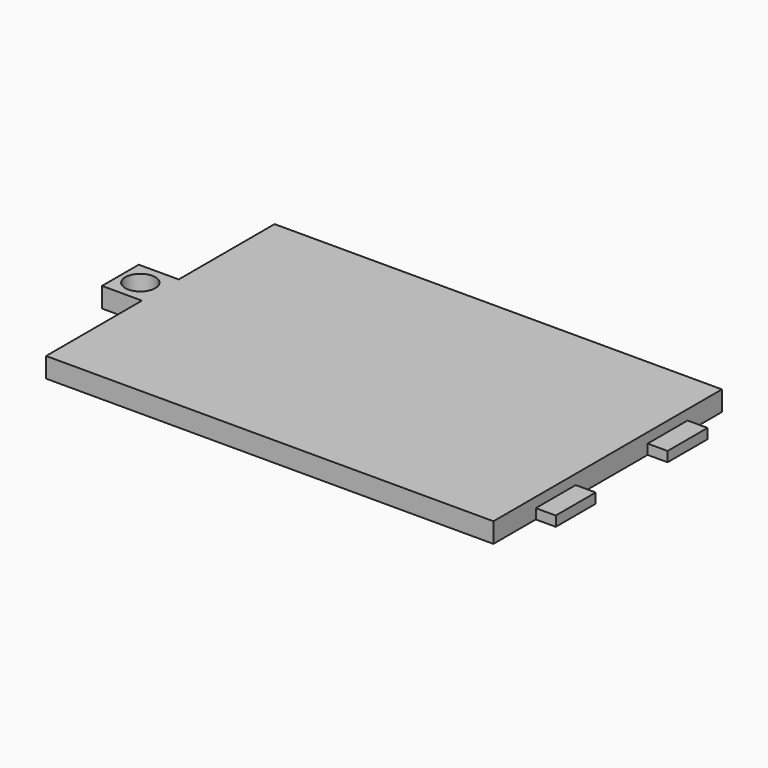
from build123d import *

# Parameters (mm, degrees)
PAD003_DEPTH    = 2
SKETCH011_R     = 1.5
POCKET007_DEPTH = 5
SKETCH012_W     = 5
SKETCH012_H     = 1
PAD004_DEPTH    = 2


with BuildPart() as part:
    # Sketch010 → Pad003 (new body)
    with BuildSketch(Plane.XY.offset(25)):
        Polygon((-16, 25.8), (28.8, 25.8), (28.8, -2.8), (-16, -2.8), (-16, 9.2), (-20, 9.2), (-20, 13.8), (-16, 13.8), align=None)
    extrude(amount=PAD003_DEPTH)

    # Sketch011 (on Face10 of Pad003) → Pocket007 (cut)
    with BuildSketch(Plane.XY.offset(27)):
        with Locations((-18, 11.5)):
            Circle(SKETCH011_R)
    extrude(amount=-POCKET007_DEPTH, mode=Mode.SUBTRACT)

    # Sketch012 (on Face3 of Pocket007) → Pad004 (join)
    with BuildSketch(Plane.YZ.offset(28.8)):
        with Locations((5, 25.5)):
            Rectangle(SKETCH012_W, SKETCH012_H)
        with Locations((19, 25.5)):
            Rectangle(SKETCH012_W, SKETCH012_H)
    extrude(amount=PAD004_DEPTH)


solid = part.part
